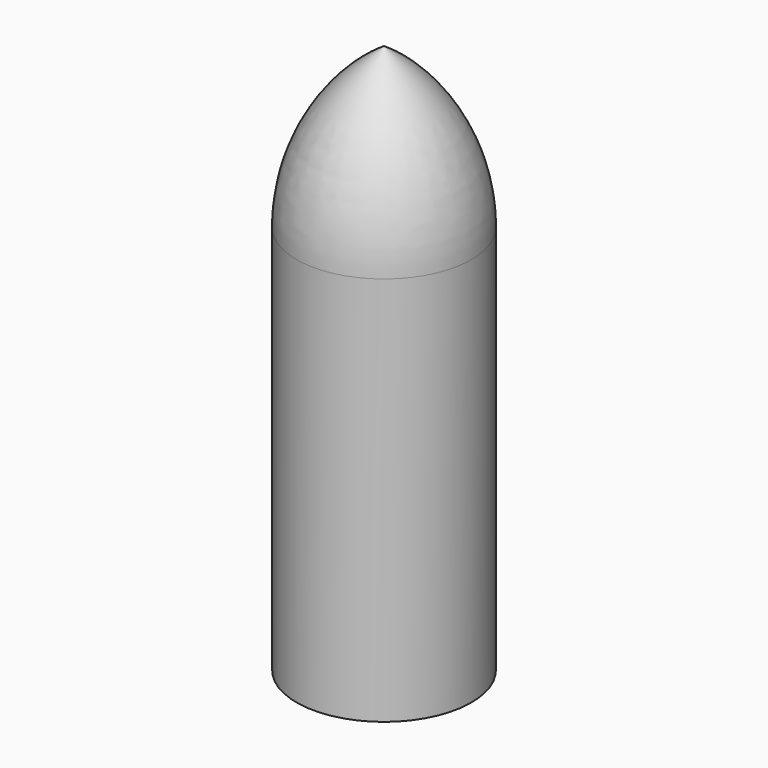
from build123d import *

# Parameters (mm, degrees)
F0_W = 7.940184
F0_H = 35.406878


with BuildPart() as f1:
    # F0 (on Right) → F1 (revolve)
    with BuildSketch(Plane.YZ):
        with BuildLine():
            Line((0, 49.896049), (0, 35.406878))
            Line((0, 35.406878), (7.940184, 35.406878))
            ThreePointArc((7.940184, 35.406878), (5.825004, 43.66797), (0, 49.896049))
        make_face()
        with Locations((3.970092, 17.703439)):
            Rectangle(F0_W, F0_H)
    revolve(axis=Axis((0, 0, 17.703439), (0, 0, 1)))


solid = f1.part
